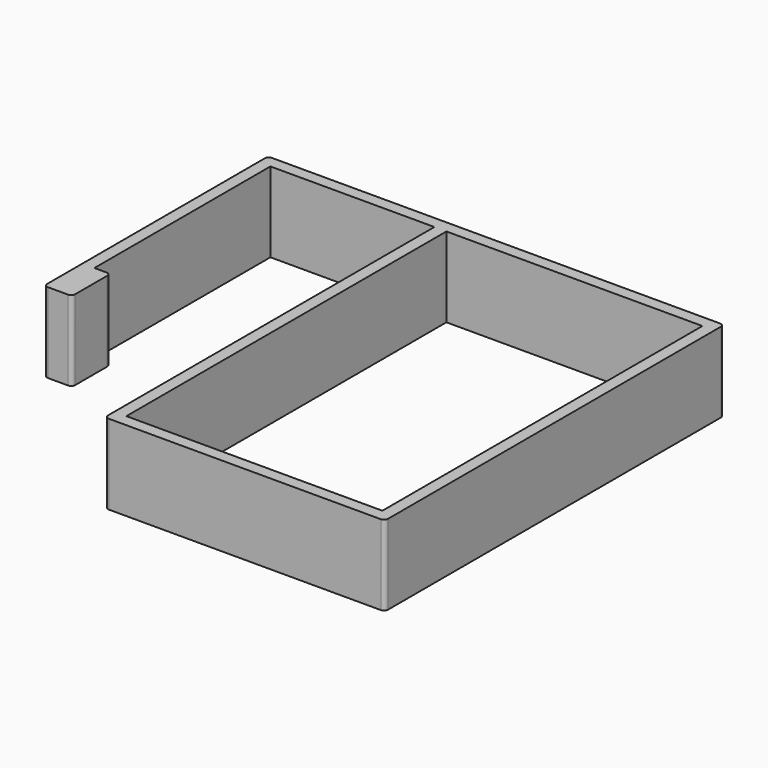
from build123d import *

# Parameters (mm, degrees)
F0_W     = 32
F0_H     = 50
F0_W_2   = 2
F0_H_2   = 6
F1_DEPTH = 10
F2_R     = 0.5


with BuildPart() as f1:
    # F0 (on Top) → F1 (new body)
    with BuildSketch(Plane.XY):
        Polygon((-17.5, 26.5), (-17.5, 25), (-17.5, -26.5), (17.5, -26.5), (17.5, 26.5), (-16, 26.5), align=None)
        Rectangle(F0_W, F0_H, mode=Mode.SUBTRACT)
        Polygon((-38, 25), (-17.5, 25), (-17.5, 26.5), (-39.5, 26.5), (-39.5, -8.5), (-38, -8.5), (-38, -2.5), align=None)
        with Locations((-37, -5.5)):
            Rectangle(F0_W_2, F0_H_2)
    extrude(amount=F1_DEPTH)

    # F2
    f2_edges = [f1.edges().sort_by_distance(p)[0] for p in [
        (-36, -2.5, 5),
        (-36, -8.5, 5),
        (17.5, -26.5, 5),
        (17.5, 26.5, 5),
        (-17.5, -26.5, 5),
        (-39.5, 26.5, 5),
        (-39.5, -8.5, 5),
    ]]
    fillet(f2_edges, radius=F2_R)


solid = f1.part
